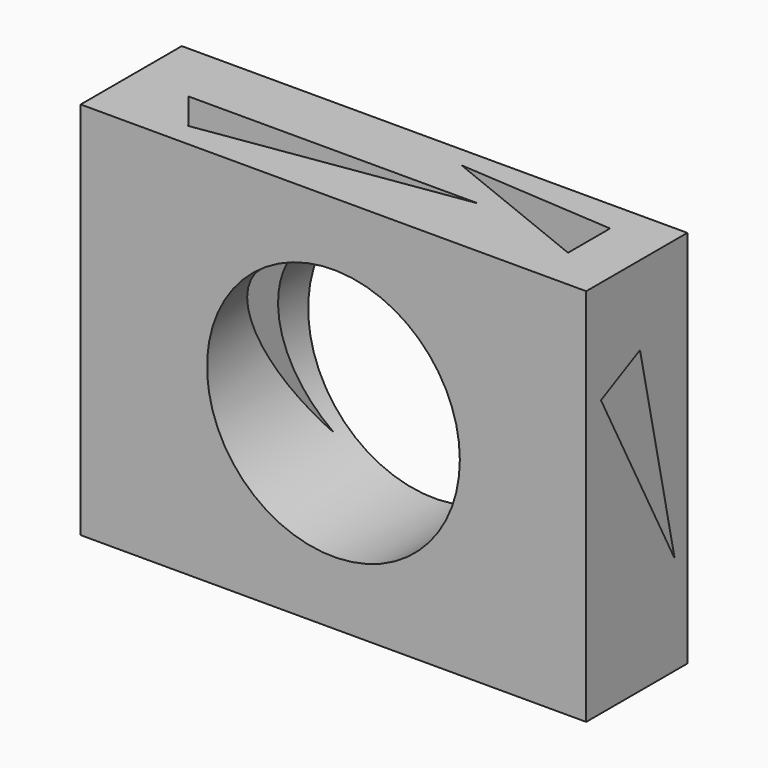
from build123d import *

# Parameters (mm, degrees)
F0_W     = 101.6
F0_H     = 76.2
F1_DEPTH = 25.4
F2_R     = 25.4
F3_DEPTH = 25.401
F5_DEPTH = 19.05
F7_DEPTH = 19.05
F9_DEPTH = 101.601


with BuildPart() as f1:
    # F0 (on Front) → F1 (new body)
    with BuildSketch(Plane.XZ):
        with Locations((50.8, 38.1)):
            Rectangle(F0_W, F0_H)
    extrude(amount=F1_DEPTH)

    # F2 (on face) → F3 (cut, through all)
    with BuildSketch(Plane.XZ.offset(25.4)):
        with Locations((50.8, 38.1)):
            Circle(F2_R)
    extrude(amount=-F3_DEPTH, mode=Mode.SUBTRACT)

    # F4 (on face) → F5 (cut)
    with BuildSketch(Plane.XY.offset(76.2)):
        Polygon((69.784895, -12.7), (11.520899, -12.7), (17.740097, -20.550709), align=None)
    extrude(amount=-F5_DEPTH, mode=Mode.SUBTRACT)

    # F6 (on face) → F7 (cut)
    with BuildSketch(Plane.XY.offset(76.2)):
        Polygon((59.600811, -4.206988), (91.207154, -16.983436), (91.207154, -6.414911), align=None)
    extrude(amount=-F7_DEPTH, mode=Mode.SUBTRACT)

    # F8 (on face) → F9 (cut, through all)
    with BuildSketch(Plane.YZ.offset(101.6)):
        Polygon((-3.176994, 19.873125), (-11.888587, 60.30136), (-21.700324, 55.405151), align=None)
    extrude(amount=-F9_DEPTH, mode=Mode.SUBTRACT)


solid = f1.part
